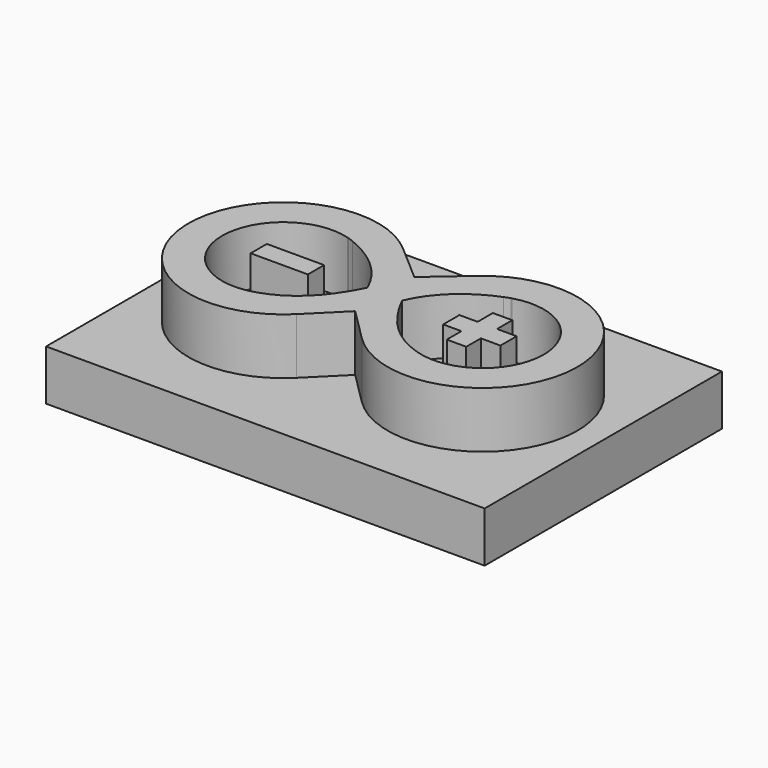
from build123d import *

# Parameters (mm, degrees)
F0_W     = 2.0414483733
F0_H     = 0.721976161
F1_DEPTH = 2
F2_W     = 15.6397670507
F2_H     = 1.7975292867
F3_DEPTH = 10.57614


with BuildPart() as f1:
    # F0 (on Top) → F1 (new body)
    with BuildSketch(Plane.XY):
        with Locations((4.3597610202, 5.3057591431)):
            Rectangle(F0_W, F0_H)
    extrude(amount=F1_DEPTH)


with BuildPart() as f1b:
    # F0 (on Top) → F1, piece 2 (new body)
    with BuildSketch(Plane.XY):
        with BuildLine():
            Line((7.7931912586, 6.6738531707), (6.4594786492, 7.8313707121))
            ThreePointArc((6.4594786492, 7.8313707121), (0.8598295398, 5.1594552842), (6.629949957, 2.8789043478))
            Line((6.629949957, 2.8789043478), (7.7931912586, 4.0379823539))
            Line((7.7931912586, 4.0379823539), (8.9564325602, 2.8789043478))
            ThreePointArc((8.9564325602, 2.8789043478), (14.7265529774, 5.1594552842), (9.1269038679, 7.8313707121))
            Line((9.1269038679, 7.8313707121), (7.7931912586, 6.6738531707))
        make_face()
        with BuildLine():
            ThreePointArc((4.894297192, 7.3595173929), (4.9966959497, 7.324631917), (5.0972412206, 7.2847176276))
            add(Edge.make_bspline(
                [(7.1729766205, 5.3559177623), (6.6577003841, 6.5579472848), (5.5758785114, 7.0954281514), (5.0972412206, 7.2847176276)],
                knots=[0, 0, 0, 0, 0.6925736163, 0.6925736163, 0.6925736163, 0.6925736163], degree=3))
            add(Edge.make_bspline(
                [(4.894297192, 3.1922025334), (5.9406389482, 3.5132674966), (6.6252709366, 4.2601390742), (7.1729766205, 5.3559177623)],
                knots=[0, 0, 0, 0, 3.1422990834, 3.1422990834, 3.1422990834, 3.1422990834], degree=3))
            ThreePointArc((4.894297192, 3.1922025334), (2.0581422173, 5.2583593128), (4.8608135864, 7.369712451))
            add(Edge.make_bspline(
                [(4.8608135864, 7.369712451), (4.8604211246, 7.3706277748), (4.8786656068, 7.3666505368), (4.894297192, 7.3595173929)],
                knots=[0.9034710811, 0.9034710811, 0.9034710811, 0.9034710811, 1, 1, 1, 1], degree=3))
        make_face(mode=Mode.SUBTRACT)
        with BuildLine():
            add(Edge.make_bspline(
                [(10.6920853252, 3.1922025334), (9.6457435689, 3.5132674966), (8.9611115805, 4.2601390742), (8.4134058967, 5.3559177623)],
                knots=[0, 0, 0, 0, 3.1422990834, 3.1422990834, 3.1422990834, 3.1422990834], degree=3))
            add(Edge.make_bspline(
                [(8.4134058967, 5.3559177623), (8.9286821331, 6.5579472848), (10.0105040057, 7.0954281514), (10.4891412966, 7.2847176276)],
                knots=[0, 0, 0, 0, 0.6925736163, 0.6925736163, 0.6925736163, 0.6925736163], degree=3))
            ThreePointArc((10.4891412966, 7.2847176276), (10.5896865675, 7.324631917), (10.6920853252, 7.3595173929))
            add(Edge.make_bspline(
                [(10.7255689308, 7.369712451), (10.7259613925, 7.3706277748), (10.7077169104, 7.3666505368), (10.6920853252, 7.3595173929)],
                knots=[0.9034710811, 0.9034710811, 0.9034710811, 0.9034710811, 1, 1, 1, 1], degree=3))
            ThreePointArc((10.7255689308, 7.369712451), (13.5282402999, 5.2583593128), (10.6920853252, 3.1922025334))
        make_face(mode=Mode.SUBTRACT)
    extrude(amount=F1_DEPTH)


with BuildPart() as f1c:
    # F0 (on Top) → F1, piece 3 (new body)
    with BuildSketch(Plane.XY):
        Polygon((11.5484036505, 4.9447710626), (12.2473456837, 4.9447710626), (12.2473456837, 5.6667472236), (11.5484036505, 5.6667472236), (11.5484036505, 6.3459160738), (10.8551047742, 6.3459160738), (10.8551047742, 5.6667472236), (10.2058973103, 5.6667472236), (10.2058973103, 4.9447710626), (10.8551047742, 4.9447710626), (10.8551047742, 4.2932070792), (11.5484036505, 4.2932070792), align=None)
    extrude(amount=F1_DEPTH)


with BuildPart() as f3:
    # F2 (on Front) → F3 (new body)
    with BuildSketch(Plane.XZ):
        with Locations((7.8198835254, -0.8987646434)):
            Rectangle(F2_W, F2_H)
    extrude(amount=-F3_DEPTH)


solid = Compound([f1.part, f1b.part, f1c.part, f3.part])
